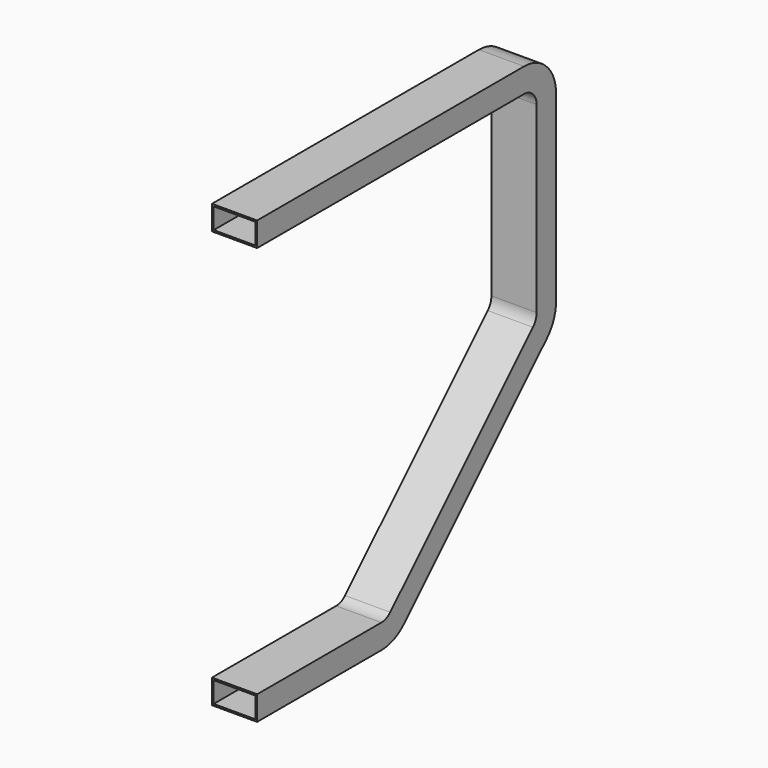
from build123d import *

# Parameters (mm, degrees)
F1_W   = 82.55
F1_H   = 44.45
F1_W_2 = 76.2
F1_H_2 = 38.1


with BuildPart() as f2:
    # F2: sweep along a path in F0
    with BuildLine(Plane.YZ) as f2_path:
        Line((0, 0), (283.757951, 0))
        ThreePointArc((283.757951, 0), (303.198269, 3.86692), (319.678976, 14.878976))
        Line((319.678976, 14.878976), (645.521024, 340.721024))
        ThreePointArc((645.521024, 340.721024), (656.53308, 357.201731), (660.4, 376.642049))
        Line((660.4, 376.642049), (660.4, 711.2))
        ThreePointArc((660.4, 711.2), (645.521024, 747.121024), (609.6, 762))
        Line((609.6, 762), (0, 762))
    # F1 (on Front) → F2 (sweep)
    with BuildSketch(Plane.XZ):
        Rectangle(F1_W, F1_H)
        Rectangle(F1_W_2, F1_H_2, mode=Mode.SUBTRACT)
    sweep(path=f2_path.line)


solid = f2.part
